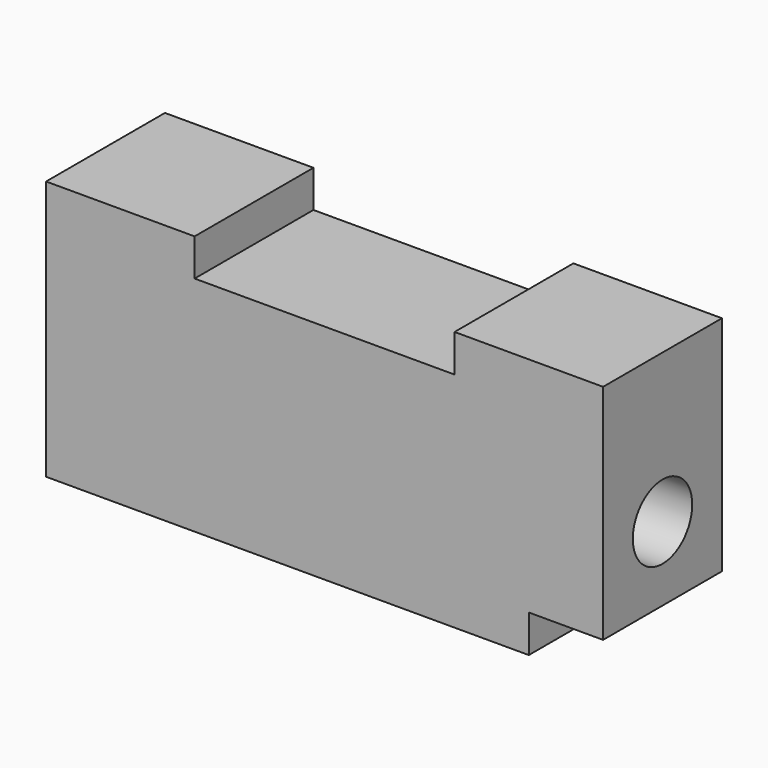
from build123d import *

# Parameters (mm, degrees)
F0_W     = 82.55
F0_H     = 38.1
F2_DEPTH = 12.7
F3_W     = 25.4
F3_H     = 25.4
F4_DEPTH = 6.35
F5_W     = 25.4
F5_H     = 6.416842
F5_H_2   = 31.683158
F6_DEPTH = 12.7
F7_R     = 6.35
F8_DEPTH = 95.251


with BuildPart() as f2:
    # F0 (on Front) → F2 (new body, symmetric)
    with BuildSketch(Plane.XZ):
        Rectangle(F0_W, F0_H)
    extrude(amount=F2_DEPTH, both=True)

    # F3 (on face) → F4 (join, symmetric)
    with BuildSketch(Plane.XY.offset(19.05)):
        with Locations((-28.575, 0)):
            Rectangle(F3_W, F3_H)
    extrude(amount=F4_DEPTH, both=True)

    # F5 (on face) → F6 (join, symmetric)
    with BuildSketch(Plane.YZ.offset(41.275)):
        with Locations((0, 22.258421)):
            Rectangle(F5_W, F5_H)
        with Locations((0, 3.208421)):
            Rectangle(F5_W, F5_H_2)
    extrude(amount=F6_DEPTH, both=True)

    # F7 (on face) → F8 (cut, through all)
    with BuildSketch(Plane.YZ.offset(53.975)):
        Circle(F7_R)
    extrude(amount=-F8_DEPTH, mode=Mode.SUBTRACT)


solid = f2.part
